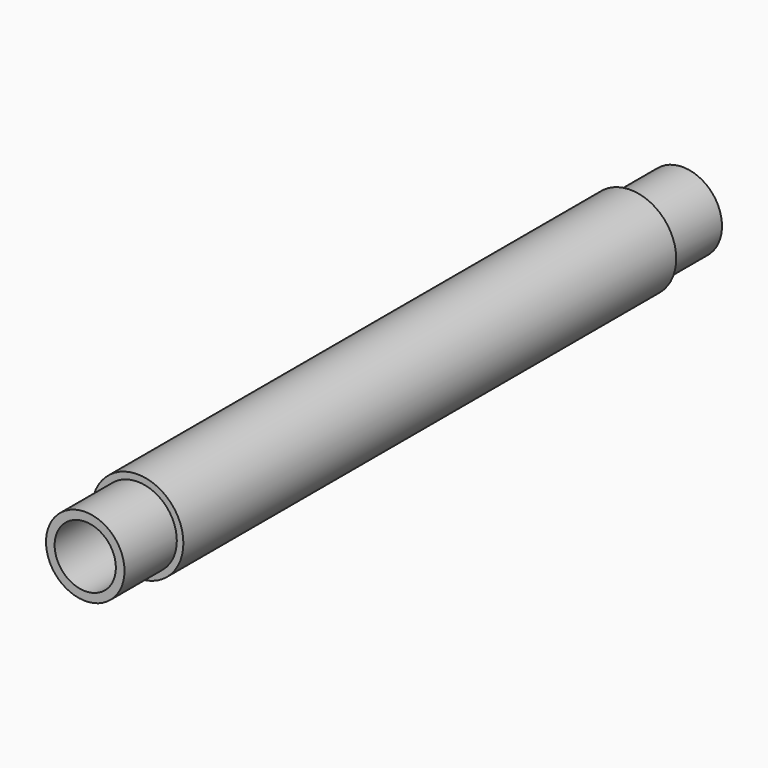
from build123d import *

# Parameters (mm, degrees)
F1_R     = 8.89
F1_R_2   = 5.9436
F3_R     = 8.89
F3_R_2   = 7.62
F4_DEPTH = 12.7
F5_R     = 8.89
F5_R_2   = 7.62
F6_DEPTH = 12.7


with BuildPart() as f2:
    # F2: sweep along a path in F0
    with BuildLine(Plane.XY) as f2_path:
        Line((0, 0), (0, 145.0086))
    # F1 (on Front) → F2 (sweep)
    with BuildSketch(Plane.XZ):
        Circle(F1_R)
        Circle(F1_R_2, mode=Mode.SUBTRACT)
    sweep(path=f2_path.line)

    # F3 (on face) → F4 (cut)
    with BuildSketch(Plane(origin=(0, 145.0086, 0), x_dir=(-1, 0, 0), z_dir=(0, 1, 0))):
        Circle(F3_R)
        Circle(F3_R_2, mode=Mode.SUBTRACT)
    extrude(amount=-F4_DEPTH, mode=Mode.SUBTRACT)

    # F5 (on face) → F6 (cut)
    with BuildSketch(Plane.XZ):
        Circle(F5_R)
        Circle(F5_R_2, mode=Mode.SUBTRACT)
    extrude(amount=-F6_DEPTH, mode=Mode.SUBTRACT)


solid = f2.part
